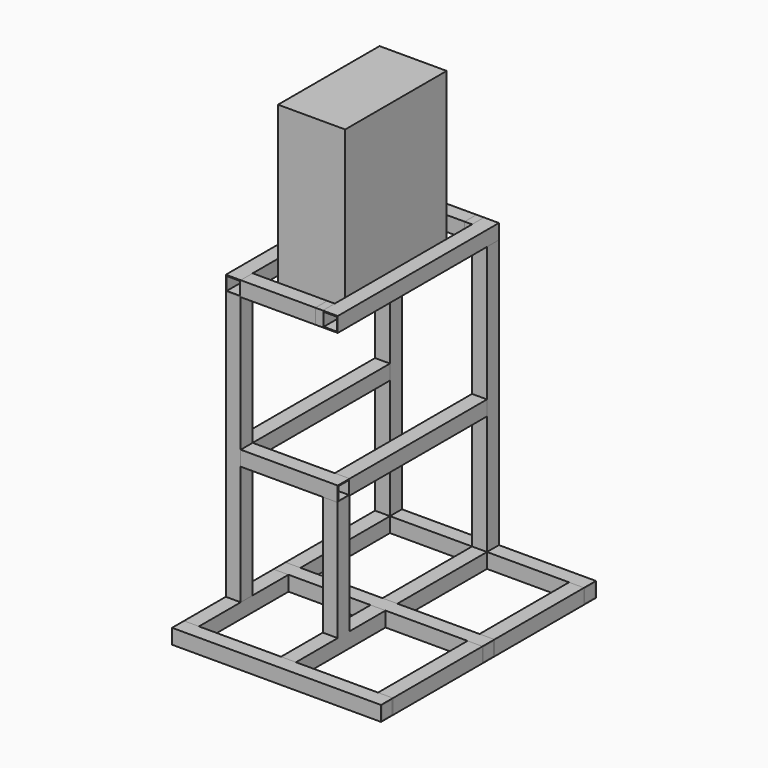
from build123d import *

# Parameters (mm, degrees)
F0_W      = 228.6
F0_H      = 533.4
F1_DEPTH  = 431.8
F2_W      = 50.8
F2_H      = 50.8
F2_W_2    = 44.45
F2_H_2    = 44.45
F3_DEPTH  = 254
F4_DEPTH  = 25.4
F5_W      = 50.8
F5_H      = 50.8
F5_W_2    = 44.45
F5_H_2    = 44.45
F6_DEPTH  = 685.8
F7_W      = 50.8
F7_H      = 50.8
F7_W_2    = 44.45
F7_H_2    = 44.45
F8_DEPTH  = 914.4
F9_W      = 50.8
F9_H      = 50.8
F9_W_2    = 44.45
F9_H_2    = 44.45
F10_DEPTH = 914.4
F11_W     = 50.8
F11_H     = 50.8
F11_W_2   = 44.45
F11_H_2   = 44.45
F12_DEPTH = 711.2
F13_W     = 50.8
F13_H     = 50.8
F13_W_2   = 44.45
F13_H_2   = 44.45
F14_DEPTH = 406.4
F15_W     = 50.8
F15_H     = 50.8
F15_W_2   = 44.45
F15_H_2   = 44.45
F16_DEPTH = 330.2
F17_W     = 50.8
F17_H     = 50.8
F17_W_2   = 44.45
F17_H_2   = 44.45
F18_DEPTH = 584.2


with BuildPart() as f1:
    # F0 (on Front) → F1 (new body)
    with BuildSketch(Plane.XZ):
        with Locations((114.3, 266.7)):
            Rectangle(F0_W, F0_H)
    extrude(amount=F1_DEPTH)


with BuildPart() as f3:
    # F2 (on face) → F3 (new body)
    with BuildSketch(Plane.YZ.offset(228.6)):
        with Locations((-533.4, 25.4)):
            Rectangle(F2_W, F2_H)
        with Locations((-533.4, 25.4)):
            Rectangle(F2_W_2, F2_H_2, mode=Mode.SUBTRACT)
        with Locations((101.6, 25.4)):
            Rectangle(F2_W, F2_H)
        with Locations((101.6, 25.4)):
            Rectangle(F2_W_2, F2_H_2, mode=Mode.SUBTRACT)
    extrude(amount=-F3_DEPTH)


with BuildPart() as f4:
    # F2 (on face) → F4 (new body)
    with BuildSketch(Plane.YZ.offset(228.6)):
        with Locations((-533.4, 25.4)):
            Rectangle(F2_W, F2_H)
        with Locations((-533.4, 25.4)):
            Rectangle(F2_W_2, F2_H_2, mode=Mode.SUBTRACT)
        with Locations((101.6, 25.4)):
            Rectangle(F2_W, F2_H)
        with Locations((101.6, 25.4)):
            Rectangle(F2_W_2, F2_H_2, mode=Mode.SUBTRACT)
    extrude(amount=F4_DEPTH)


with BuildPart() as f6:
    # F5 (on face) → F6 (new body)
    with BuildSketch(Plane.XZ.offset(558.8)):
        with Locations((279.4, 25.4)):
            Rectangle(F5_W, F5_H)
        with Locations((279.4, 25.4)):
            Rectangle(F5_W_2, F5_H_2, mode=Mode.SUBTRACT)
        with Locations((-50.8, 25.4)):
            Rectangle(F5_W, F5_H)
        with Locations((-50.8, 25.4)):
            Rectangle(F5_W_2, F5_H_2, mode=Mode.SUBTRACT)
    extrude(amount=-F6_DEPTH)


with BuildPart() as f8:
    # F7 (on face) → F8 (new body)
    with BuildSketch(Plane(origin=(0, 0, 0), x_dir=(1, 0, 0), z_dir=(0, 0, -1))):
        with Locations((-50.8, -101.6)):
            Rectangle(F7_W, F7_H)
        with Locations((-50.8, -101.6)):
            Rectangle(F7_W_2, F7_H_2, mode=Mode.SUBTRACT)
        with Locations((279.4, -101.6)):
            Rectangle(F7_W, F7_H)
        with Locations((279.4, -101.6)):
            Rectangle(F7_W_2, F7_H_2, mode=Mode.SUBTRACT)
        with Locations((-50.8, 533.4)):
            Rectangle(F7_W, F7_H)
        with Locations((-50.8, 533.4)):
            Rectangle(F7_W_2, F7_H_2, mode=Mode.SUBTRACT)
    extrude(amount=F8_DEPTH)


with BuildPart() as f10:
    # F9 (on face) → F10 (new body)
    with BuildSketch(Plane(origin=(0, 127, 0), x_dir=(-1, 0, 0), z_dir=(0, 1, 0))):
        with Locations((50.8, -939.8)):
            Rectangle(F9_W, F9_H)
        with Locations((50.8, -939.8)):
            Rectangle(F9_W_2, F9_H_2, mode=Mode.SUBTRACT)
        with Locations((-279.4, -939.8)):
            Rectangle(F9_W, F9_H)
        with Locations((-279.4, -939.8)):
            Rectangle(F9_W_2, F9_H_2, mode=Mode.SUBTRACT)
        with Locations((-609.6, -939.8)):
            Rectangle(F9_W, F9_H)
        with Locations((-609.6, -939.8)):
            Rectangle(F9_W_2, F9_H_2, mode=Mode.SUBTRACT)
    extrude(amount=-F10_DEPTH)

    # F13 (on face) → F14 (join)
    with BuildSketch(Plane.XY.offset(-914.4)):
        with Locations((279.4, -533.4)):
            Rectangle(F13_W, F13_H)
        with Locations((279.4, -533.4)):
            Rectangle(F13_W_2, F13_H_2, mode=Mode.SUBTRACT)
    extrude(amount=F14_DEPTH)


with BuildPart() as f12:
    # F11 (on face) → F12 (new body)
    with BuildSketch(Plane.YZ.offset(635)):
        with Locations((101.6, -939.8)):
            Rectangle(F11_W, F11_H)
        with Locations((101.6, -939.8)):
            Rectangle(F11_W_2, F11_H_2, mode=Mode.SUBTRACT)
        with Locations((-330.2, -939.8)):
            Rectangle(F11_W, F11_H)
        with Locations((-330.2, -939.8)):
            Rectangle(F11_W_2, F11_H_2, mode=Mode.SUBTRACT)
        with Locations((-762, -939.8)):
            Rectangle(F11_W, F11_H)
        with Locations((-762, -939.8)):
            Rectangle(F11_W_2, F11_H_2, mode=Mode.SUBTRACT)
    extrude(amount=-F12_DEPTH)


with BuildPart() as f16:
    # F15 (on face) → F16 (new body)
    with BuildSketch(Plane.YZ.offset(304.8)):
        with Locations((-533.4, -482.6)):
            Rectangle(F15_W, F15_H)
        with Locations((-533.4, -482.6)):
            Rectangle(F15_W_2, F15_H_2, mode=Mode.SUBTRACT)
    extrude(amount=-F16_DEPTH)


with BuildPart() as f18:
    # F17 (on face) → F18 (new body)
    with BuildSketch(Plane(origin=(0, -508, 0), x_dir=(-1, 0, 0), z_dir=(0, 1, 0))):
        with Locations((-279.4, -482.6)):
            Rectangle(F17_W, F17_H)
        with Locations((-279.4, -482.6)):
            Rectangle(F17_W_2, F17_H_2, mode=Mode.SUBTRACT)
        with Locations((50.8, -482.6)):
            Rectangle(F17_W, F17_H)
        with Locations((50.8, -482.6)):
            Rectangle(F17_W_2, F17_H_2, mode=Mode.SUBTRACT)
    extrude(amount=F18_DEPTH)


solid = Compound([f1.part, f3.part, f4.part, f6.part, f8.part, f10.part, f12.part, f16.part, f18.part])
